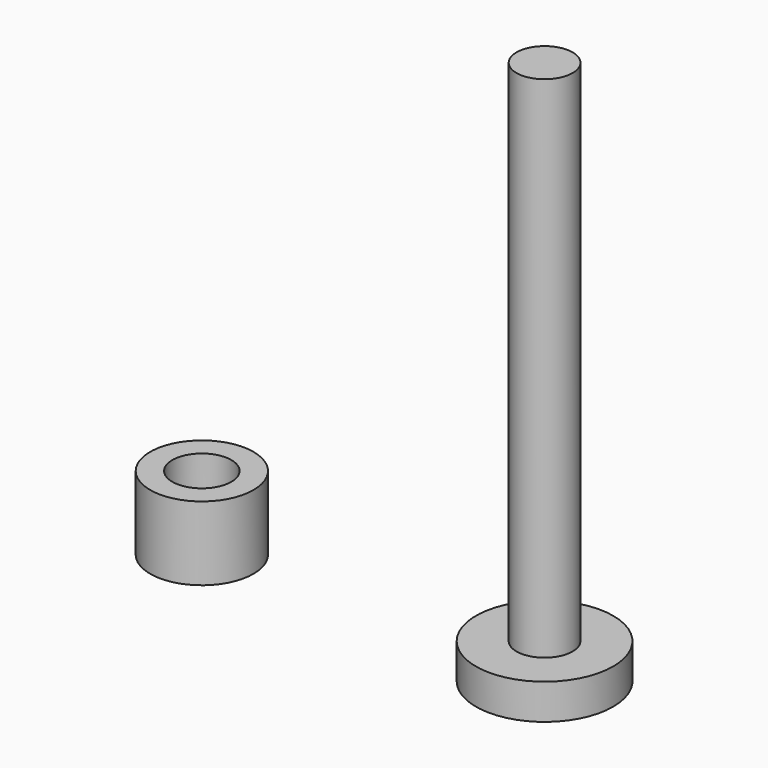
from build123d import *

# Parameters (mm, degrees)
F0_R     = 4.65
F0_R_2   = 1.9
F1_DEPTH = 2.4
F2_R     = 1.9
F3_DEPTH = 34.5
F0_R_3   = 3.5
F0_R_4   = 2
F4_DEPTH = 5


with BuildPart() as f1:
    # F0 (on Top) → F1 (new body)
    with BuildSketch(Plane.XY):
        Circle(F0_R)
        Circle(F0_R_2, mode=Mode.SUBTRACT)
        Circle(F0_R_2)
    extrude(amount=F1_DEPTH)

    # F2 (on face) → F3 (join)
    with BuildSketch(Plane.XY.offset(2.4)):
        Circle(F2_R)
    extrude(amount=F3_DEPTH)


with BuildPart() as f4:
    # F0 (on Top) → F4 (new body)
    with BuildSketch(Plane.XY):
        with Locations((-23.2181288302, 0)):
            Circle(F0_R_3)
        with Locations((-23.2181288302, 0)):
            Circle(F0_R_4, mode=Mode.SUBTRACT)
    extrude(amount=F4_DEPTH)


solid = Compound([f1.part, f4.part])
